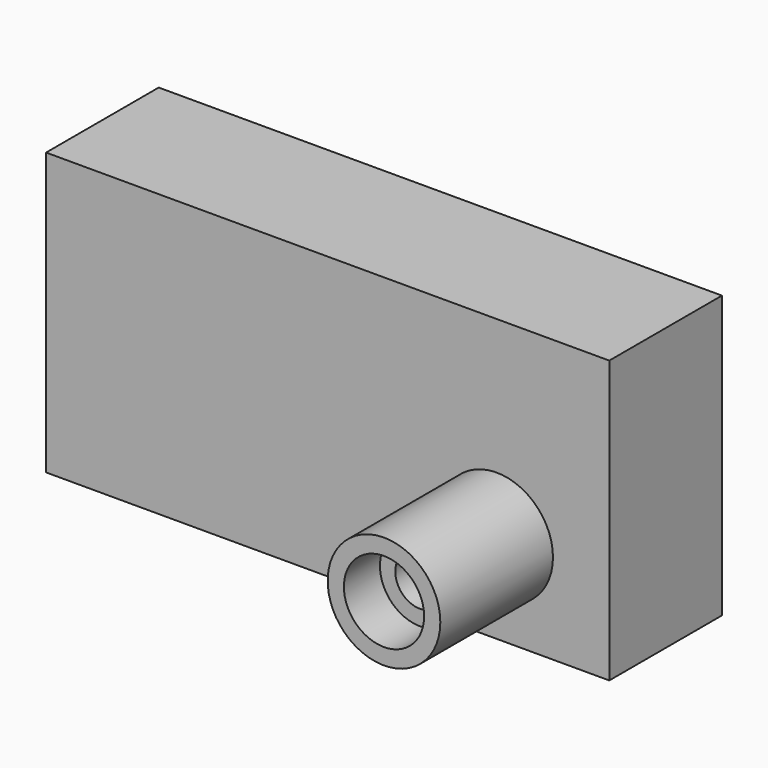
from build123d import *

# Parameters (mm, degrees)
F0_W           = 100
F0_H           = 50
F1_DEPTH       = 25
F2_R           = 10
F3_DEPTH       = 25
F5_D           = 8.8
F5_CBORE_D     = 14.25
F5_CBORE_DEPTH = 8


with BuildPart() as f1:
    # F0 (on Front) → F1 (new body)
    with BuildSketch(Plane.XZ):
        with Locations((50, -25)):
            Rectangle(F0_W, F0_H)
    extrude(amount=F1_DEPTH)

    # F2 (on face) → F3 (join)
    with BuildSketch(Plane.XZ.offset(25)):
        with Locations((80, -34)):
            Circle(F2_R)
    extrude(amount=F3_DEPTH)

    # F5 (through all)
    with Locations(Plane.XZ.offset(50)):
        with Locations((80, -34)):
            CounterBoreHole(F5_D / 2, F5_CBORE_D / 2, F5_CBORE_DEPTH)


solid = f1.part
